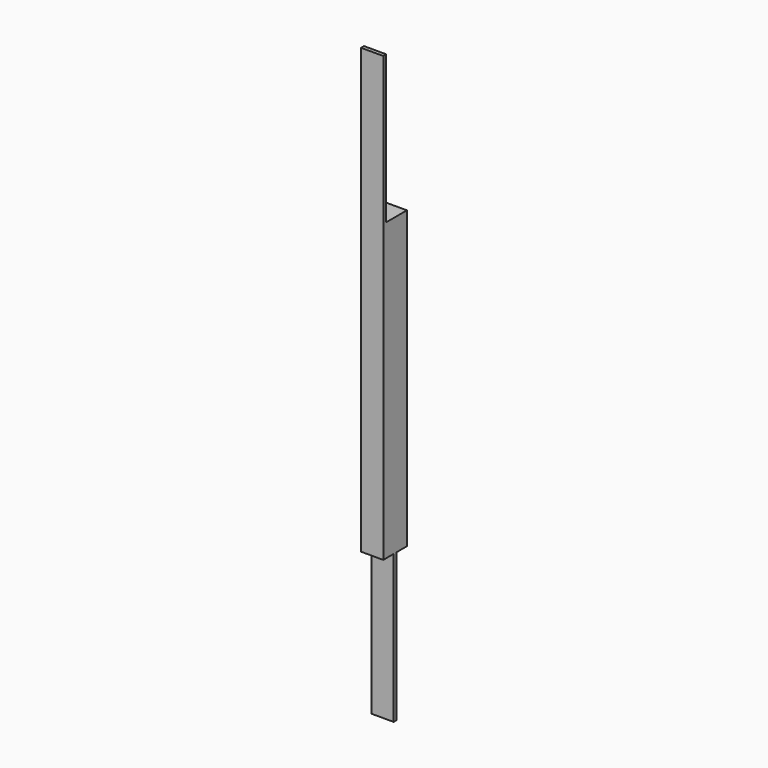
from build123d import *

# Parameters (mm, degrees)
F0_W     = 3
F0_H     = 20
F1_DEPTH = 0.25
F2_W     = 3
F2_H     = 40
F3_DEPTH = 2
F4_W     = 3
F4_H     = 20
F5_DEPTH = 2
F6_DEPTH = 1.5


with BuildPart() as f1:
    # F0 (on Front) → F1 (new body, symmetric)
    with BuildSketch(Plane.XZ):
        with Locations((0, -30)):
            Rectangle(F0_W, F0_H)
    extrude(amount=F1_DEPTH, both=True)

    # F2 (on Front) → F3 (join, symmetric)
    with BuildSketch(Plane.XZ):
        Rectangle(F2_W, F2_H)
    extrude(amount=F3_DEPTH, both=True)

    # F4 (on Front) → F5 (join)
    with BuildSketch(Plane.XZ):
        with Locations((0, 30)):
            Rectangle(F4_W, F4_H)
    extrude(amount=F5_DEPTH)

    # F4 (on Front) → F6 (cut)
    with BuildSketch(Plane.XZ):
        with Locations((0, 30)):
            Rectangle(F4_W, F4_H)
    extrude(amount=F6_DEPTH, mode=Mode.SUBTRACT)


solid = f1.part
